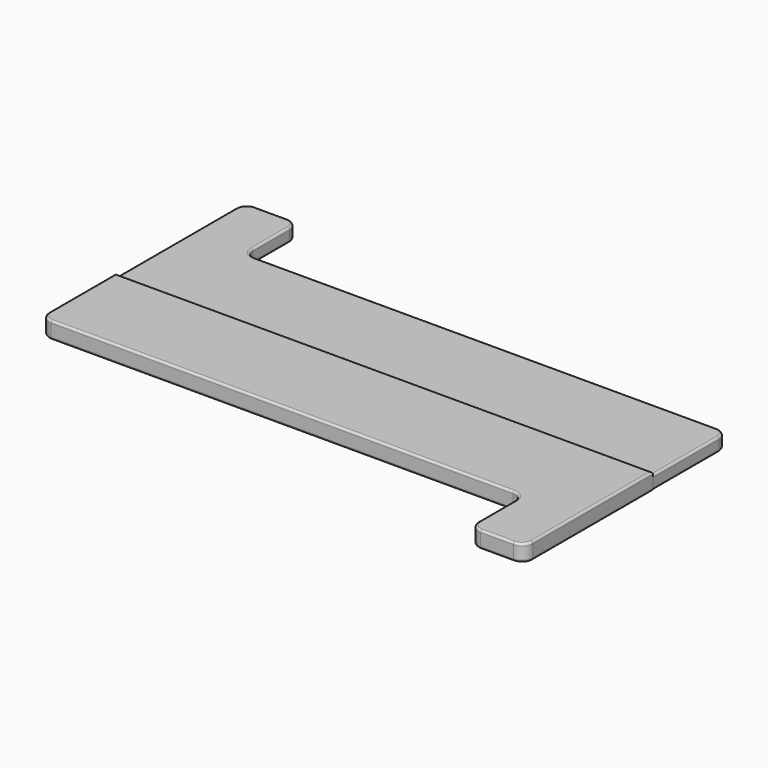
from build123d import *

# Parameters (mm, degrees)
F1_DEPTH = 3.175
F2_DEPTH = 3.9624
F3_R     = 2.54
F4_R     = 0.508


with BuildPart() as f1:
    # F0 (on Top) → F1 (new body)
    with BuildSketch(Plane.XY):
        Polygon((-63.5, -19.05), (63.5, -19.05), (63.5, 3.175), (-50.8, 3.175), (-50.8, 19.05), (-63.5, 19.05), align=None)
    extrude(amount=F1_DEPTH)

    # F0 (on Top) → F2 (join)
    with BuildSketch(Plane.XY):
        Polygon((63.652039, -19.05), (63.5, -19.05), (-63.5, -19.05), (-63.5, -41.275), (50.8, -41.275), (50.8, -57.15), (63.652039, -57.15), align=None)
    extrude(amount=F2_DEPTH)

    # F3
    f3_edges = [f1.edges().sort_by_distance(p)[0] for p in [
        (-63.5, -41.275, 1.9812),
        (50.8, -41.275, 1.9812),
        (50.8, -57.15, 1.9812),
        (63.652039, -57.15, 1.9812),
        (63.5, 3.175, 1.5875),
        (-50.8, 3.175, 1.5875),
        (-50.8, 19.05, 1.5875),
        (-63.5, 19.05, 1.5875),
    ]]
    fillet(f3_edges, radius=F3_R)

    # F4
    f4_edges = [f1.edges().sort_by_distance(p)[0] for p in [
        (-63.5, -28.8925, 3.9624),
        (-62.756051, -40.531051, 3.9624),
        (0.076019, -19.05, 3.9624),
        (-6.35, -41.275, 3.9624),
        (63.652039, -36.83, 3.9624),
        (50.056051, -42.018949, 3.9624),
        (62.90809, -56.406051, 3.9624),
        (50.8, -49.2125, 3.9624),
        (57.226019, -57.15, 3.9624),
        (51.543949, -56.406051, 3.9624),
        (63.5, -9.2075, 3.175),
        (63.5, -9.2075, 0),
        (62.756051, 2.431051, 0),
        (63.576019, -19.05, 0),
        (6.35, 3.175, 0),
        (63.652039, -36.83, 0),
        (-50.056051, 3.918949, 0),
        (62.90809, -56.406051, 0),
        (-50.8, 11.1125, 0),
        (57.226019, -57.15, 0),
        (-51.543949, 18.306051, 0),
        (51.543949, -56.406051, 0),
        (-57.15, 19.05, 0),
        (50.8, -49.2125, 0),
        (-62.756051, 18.306051, 0),
        (50.056051, -42.018949, 0),
        (-63.5, -11.1125, 0),
        (-6.35, -41.275, 0),
        (-62.756051, -40.531051, 0),
    ]]
    fillet(f4_edges, radius=F4_R)


solid = f1.part
